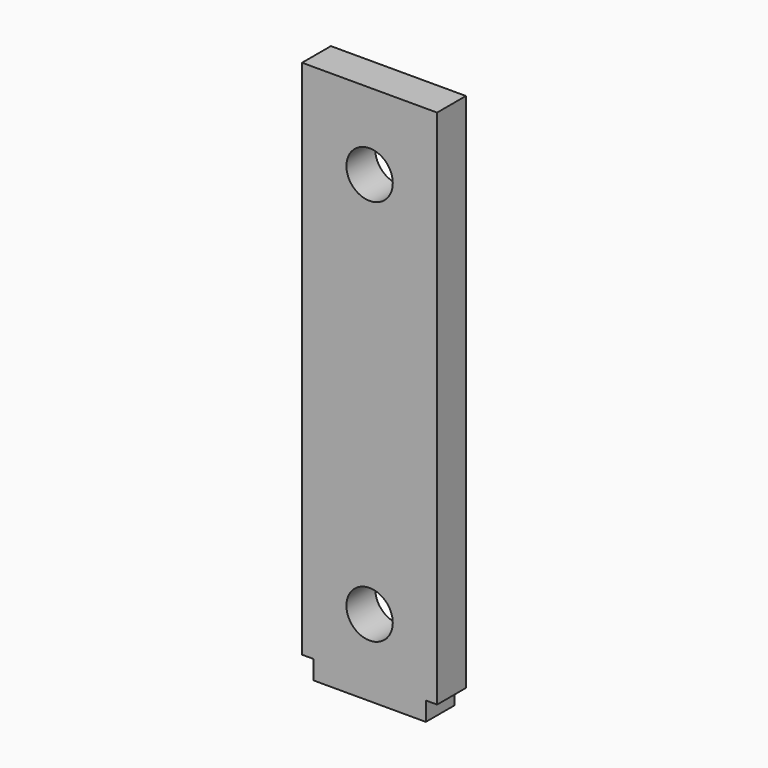
from build123d import *

# Parameters (mm, degrees)
F0_R     = 5.15
F1_DEPTH = 4


with BuildPart() as f1:
    # F0 (on Front) → F1 (new body, symmetric)
    with BuildSketch(Plane.XZ):
        Polygon((15, 0), (-15, 0), (-15, -115.8), (-12.5, -115.8), (-12.5, -120), (12.5, -120), (12.5, -115.8), (15, -115.8), align=None)
        with Locations((0, -103)):
            Circle(F0_R, mode=Mode.SUBTRACT)
        with Locations((0, -17)):
            Circle(F0_R, mode=Mode.SUBTRACT)
    extrude(amount=F1_DEPTH, both=True)


solid = f1.part
